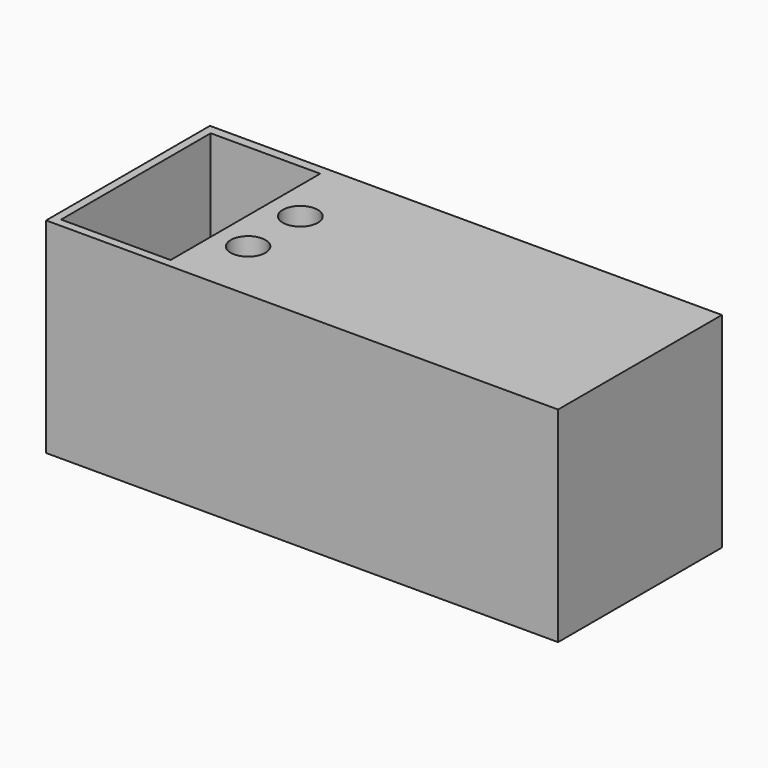
from build123d import *

# Parameters (mm, degrees)
F0_W     = 762
F0_H     = 304.8
F1_DEPTH = 304.8
F2_W     = 163.013741
F2_H     = 278.260633
F3_DEPTH = 279.4
F4_R     = 26.093017
F4_R_2   = 25.87402
F5_DEPTH = 76.2


with BuildPart() as f1:
    # F0 (on Top) → F1 (new body)
    with BuildSketch(Plane.XY):
        Rectangle(F0_W, F0_H)
    extrude(amount=-F1_DEPTH)

    # F2 (on face) → F3 (cut)
    with BuildSketch(Plane.XY):
        with Locations((-287.166662, -0.719539)):
            Rectangle(F2_W, F2_H)
    extrude(amount=-F3_DEPTH, mode=Mode.SUBTRACT)

    # F4 (on face) → F5 (cut)
    with BuildSketch(Plane.XY):
        with Locations((-156.819597, 40.271699)):
            Circle(F4_R)
        with Locations((-156.819597, -56.807101)):
            Circle(F4_R_2)
    extrude(amount=-F5_DEPTH, mode=Mode.SUBTRACT)


solid = f1.part
